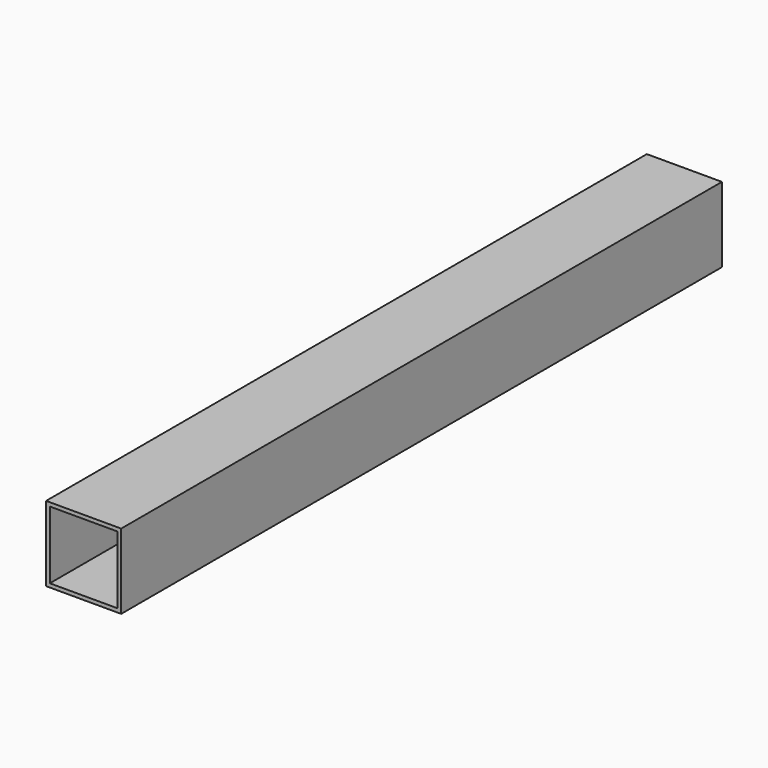
from build123d import *

# Parameters (mm, degrees)
F0_W     = 50
F0_H     = 50
F0_W_2   = 45
F0_H_2   = 45
F1_DEPTH = 250


with BuildPart() as f1:
    # F0 (on Front) → F1 (new body, symmetric)
    with BuildSketch(Plane.XZ):
        with Locations((-11.886792, 20.122862)):
            Rectangle(F0_W, F0_H)
        with Locations((-11.886792, 20.122862)):
            Rectangle(F0_W_2, F0_H_2, mode=Mode.SUBTRACT)
    extrude(amount=F1_DEPTH, both=True)


solid = f1.part
